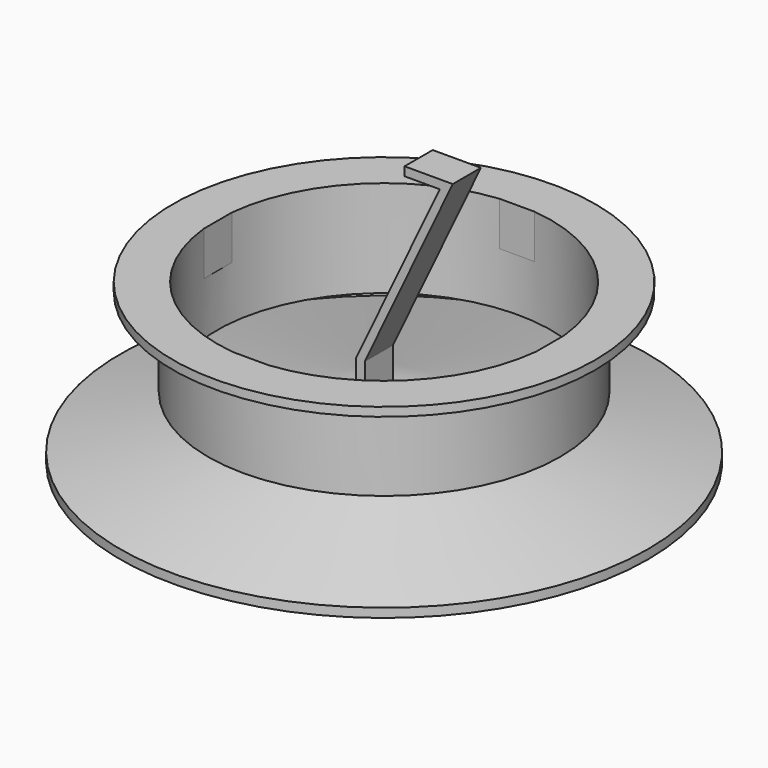
from build123d import *

# Parameters (mm, degrees)
F3_R      = 100
F3_R_2    = 95
F4_DEPTH  = 50
F5_R      = 120
F5_R_2    = 100
F5_R_3    = 95
F6_DEPTH  = 5
F7_W      = 5
F7_H      = 20
F7_W_2    = 20
F7_H_2    = 5
F8_DEPTH  = 25
F10_DEPTH = 20


with BuildPart() as f2:
    # F0 (on Front) → F2 (revolve)
    with BuildSketch(Plane.XZ):
        Polygon((150, -29.865693), (0, 5.134307), (0, 0), (150, -35), align=None)
    revolve(axis=Axis((0, 0, 19.440636), (0, 0, 1)))


with BuildPart() as f4:
    # F3 (on Top) → F4 (new body)
    with BuildSketch(Plane.XY):
        Circle(F3_R)
        Circle(F3_R_2, mode=Mode.SUBTRACT)
    extrude(amount=F4_DEPTH)

    # F5 (on face) → F6 (join)
    with BuildSketch(Plane.XY.offset(50)):
        Circle(F5_R)
        Circle(F5_R_2, mode=Mode.SUBTRACT)
        Circle(F5_R_2)
        Circle(F5_R_3, mode=Mode.SUBTRACT)
    extrude(amount=F6_DEPTH)

    # F7 (on face) → F8 (join)
    with BuildSketch(Plane.XY.offset(55)):
        with Locations((-96.972218, 0)):
            Rectangle(F7_W, F7_H)
        with Locations((-96.972218, 0)):
            Rectangle(F7_W, F7_H)
        with Locations((0, -96.972218)):
            Rectangle(F7_W_2, F7_H_2)
        with Locations((0, -96.972218)):
            Rectangle(F7_W_2, F7_H_2)
        with Locations((96.972218, 0)):
            Rectangle(F7_W, F7_H)
        with Locations((96.972218, 0)):
            Rectangle(F7_W, F7_H)
        with Locations((0, 96.972218)):
            Rectangle(F7_W_2, F7_H_2)
        with Locations((0, 96.972218)):
            Rectangle(F7_W_2, F7_H_2)
    extrude(amount=-F8_DEPTH)


with BuildPart() as f10:
    # F9 (on Front) → F10 (new body)
    with BuildSketch(Plane.XZ):
        Polygon((0, 25), (0, 0), (5, 0), (5, 25), (55, 130), (27.619048, 130), (27.619048, 125), (47.619048, 125), align=None)
    extrude(amount=F10_DEPTH)


solid = Compound([f2.part, f4.part, f10.part])
